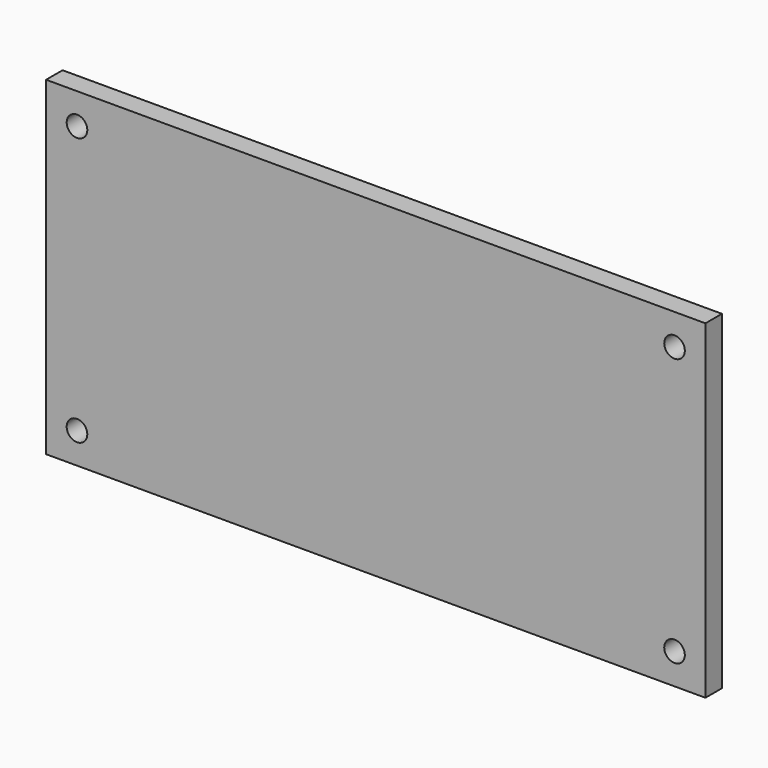
from build123d import *

# Parameters (mm, degrees)
F0_W     = 101.6
F0_H     = 50.8
F1_DEPTH = 3.175
F2_R     = 1.5875
F3_DEPTH = 25.4
F4_R     = 3.175568
F5_DEPTH = 25.4


with BuildPart() as f1:
    # F0 (on Front) → F1 (new body)
    with BuildSketch(Plane.XZ):
        with Locations((16.999856, -14.768285)):
            Rectangle(F0_W, F0_H)
    extrude(amount=F1_DEPTH)

    # F2 (on face) → F3 (cut)
    with BuildSketch(Plane(origin=(0, 0, 0), x_dir=(-1, 0, 0), z_dir=(0, 1, 0))):
        with Locations((-63.037356, 5.869215)):
            Circle(F2_R)
        with Locations((-63.037356, -35.405785)):
            Circle(F2_R)
        with Locations((29.037644, 5.869215)):
            Circle(F2_R)
        with Locations((29.037644, -35.405785)):
            Circle(F2_R)
    extrude(amount=-F3_DEPTH, mode=Mode.SUBTRACT)

    # F4 (on face) → F5 (cut)
    with BuildSketch(Plane.XZ.offset(3.175)):
        with Locations((25.4, -20.161087)):
            Circle(F4_R)
    extrude(amount=F5_DEPTH, mode=Mode.SUBTRACT)


solid = f1.part
